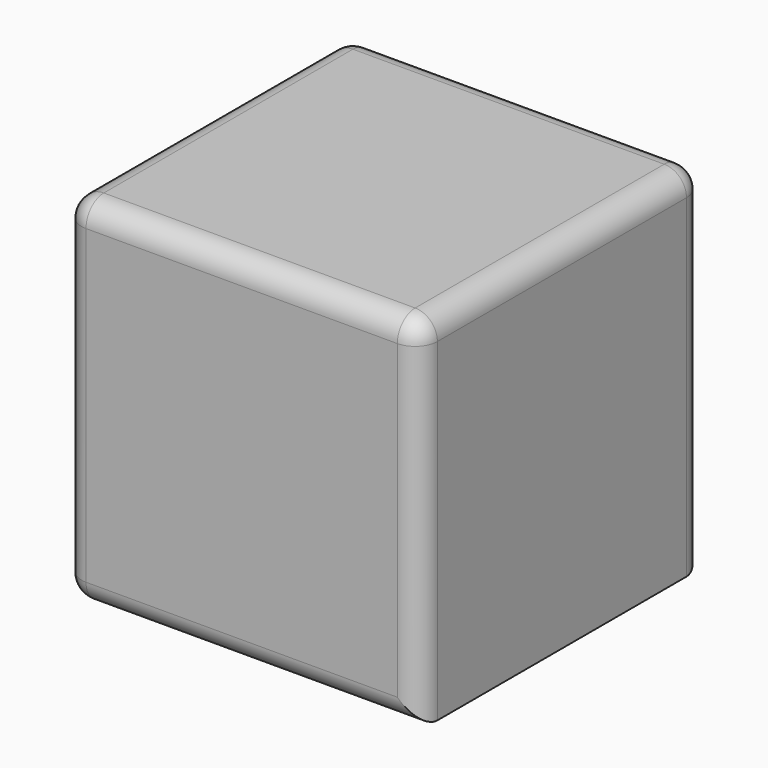
from build123d import *

# Parameters (mm, degrees)
F0_W     = 80
F0_H     = 80
F1_DEPTH = 40
F2_R     = 5


with BuildPart() as f1:
    # F0 (on Top) → F1 (new body, symmetric)
    with BuildSketch(Plane.XY):
        Rectangle(F0_W, F0_H)
    extrude(amount=F1_DEPTH, both=True)

    # F2
    f2_edges = [f1.edges().sort_by_distance(p)[0] for p in [
        (0, 40, 40),
        (-40, 0, 40),
        (0, -40, 40),
        (40, 0, 40),
        (-40, -40, 0),
        (0, -40, -40),
        (40, -40, 0),
        (0, 40, -40),
        (-40, 40, 0),
        (40, 40, 0),
        (-40, 0, -40),
    ]]
    fillet(f2_edges, radius=F2_R)


solid = f1.part
